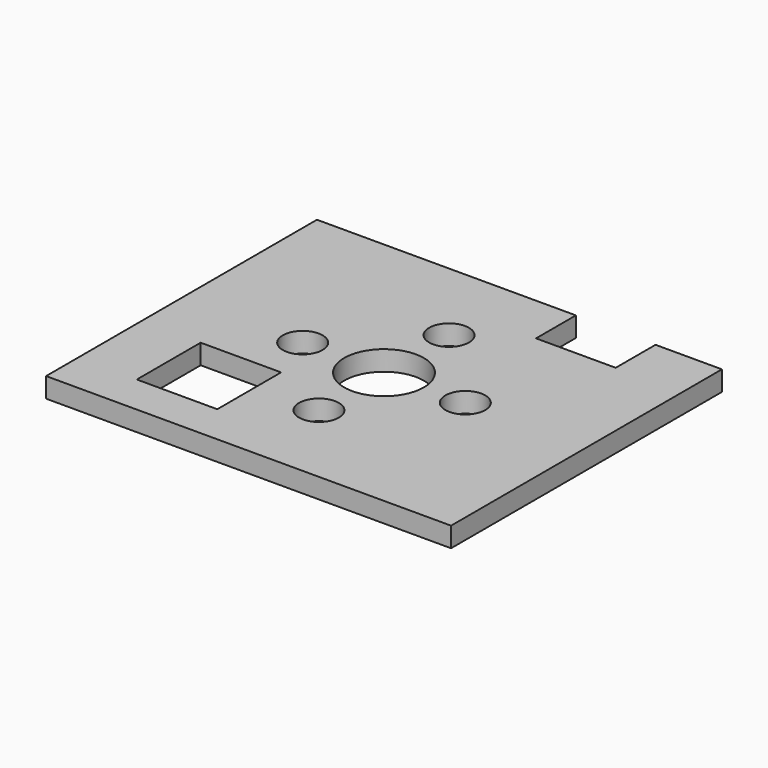
from build123d import *

# Parameters (mm, degrees)
F0_W     = 6.058977
F0_H     = 6.008338
F0_R     = 1.5
F0_R_2   = 3
F1_DEPTH = 1.5


with BuildPart() as f1:
    # F0 (on Top) → F1 (new body)
    with BuildSketch(Plane.XY):
        Polygon((-39.987817, 27.423815), (-39.987817, 1.923815), (-9.487817, 1.923815), (-9.487817, 27.423815), (-14.487817, 27.423815), (-14.487817, 23.673815), (-20.487817, 23.673815), (-20.487817, 27.423815), align=None)
        with Locations((-32.517305, 7.919646)):
            Rectangle(F0_W, F0_H, mode=Mode.SUBTRACT)
        with Locations((-24.737817, 8.548815)):
            Circle(F0_R, mode=Mode.SUBTRACT)
        with Locations((-30.862817, 14.673815)):
            Circle(F0_R, mode=Mode.SUBTRACT)
        with Locations((-24.737817, 14.673815)):
            Circle(F0_R_2, mode=Mode.SUBTRACT)
        with Locations((-18.612817, 14.673815)):
            Circle(F0_R, mode=Mode.SUBTRACT)
        with Locations((-24.737817, 20.798815)):
            Circle(F0_R, mode=Mode.SUBTRACT)
    extrude(amount=F1_DEPTH)


solid = f1.part
